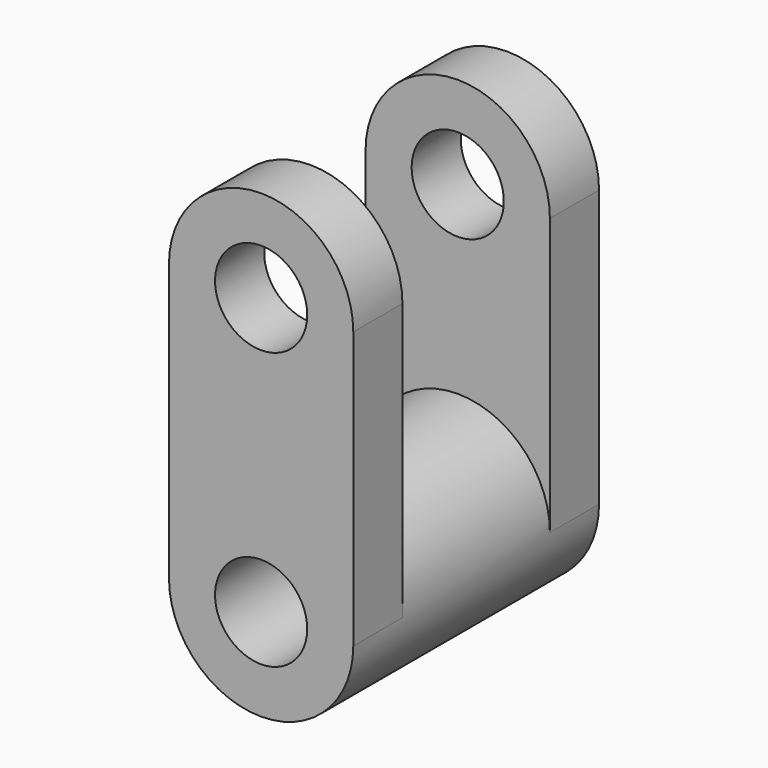
from build123d import *

# Parameters (mm, degrees)
F0_R     = 381
F0_R_2   = 190.5
F1_DEPTH = 1016
F2_R     = 190.5
F3_DEPTH = 254
F4_R     = 190.5
F5_DEPTH = 254


with BuildPart() as f1:
    # F0 (on Front) → F1 (new body)
    with BuildSketch(Plane.XZ):
        Circle(F0_R)
        Circle(F0_R_2, mode=Mode.SUBTRACT)
    extrude(amount=F1_DEPTH)

    # F2 (on face) → F3 (join)
    with BuildSketch(Plane.XZ.offset(1016)):
        with BuildLine():
            Line((381, 0), (381, 1143))
            ThreePointArc((381, 1143), (0, 1524), (-381, 1143))
            Line((-381, 1143), (-381, 0))
            ThreePointArc((-381, 0), (0, -381), (381, 0))
        make_face()
        Circle(F2_R, mode=Mode.SUBTRACT)
        with Locations((0, 1143)):
            Circle(F2_R, mode=Mode.SUBTRACT)
    extrude(amount=-F3_DEPTH)

    # F4 (on face) → F5 (join)
    with BuildSketch(Plane(origin=(0, 0, 0), x_dir=(-1, 0, 0), z_dir=(0, 1, 0))):
        with BuildLine():
            ThreePointArc((381, 1143), (0, 1524), (-381, 1143))
            Line((-381, 1143), (-381, 0))
            ThreePointArc((-381, 0), (0, 381), (381, 0))
            Line((381, 0), (381, 1143))
        make_face()
        with Locations((0, 1143)):
            Circle(F4_R, mode=Mode.SUBTRACT)
        with BuildLine():
            ThreePointArc((381, 0), (0, 381), (-381, 0))
            ThreePointArc((-381, 0), (0, -381), (381, 0))
        make_face()
        Circle(F4_R, mode=Mode.SUBTRACT)
    extrude(amount=F5_DEPTH)


solid = f1.part
